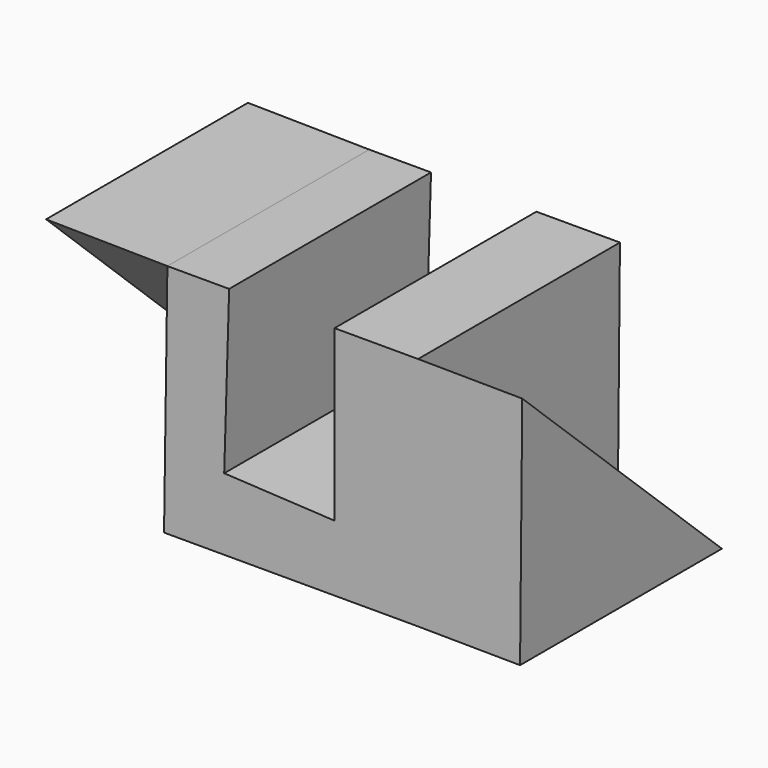
from build123d import *

# Parameters (mm, degrees)
F1_DEPTH = 94.3762343377
F3_DEPTH = 45.3802291304
F5_DEPTH = 38.9628577977


with BuildPart() as f1:
    # F0 (on Front) → F1 (new body)
    with BuildSketch(Plane.XZ):
        Polygon((-20.9776982665, 37.0258837938), (-44.0754815936, 37.0258837938), (-45.3320667148, -51.1417090893), (48.8735437393, -51.1417090893), (49.6917665005, 36.9159281254), (18.4360146523, 36.9159281254), (18.4360146523, -26.4765024185), (-22.8313431144, -24.2851227522), align=None)
    extrude(amount=F1_DEPTH)

    # F2 (on face) → F3 (join)
    with BuildSketch(Plane(origin=(-44.5941249017, 0, 0.635565881), x_dir=(0, -1, 0), z_dir=(-0.9998984524, 0, 0.0142507862))):
        Polygon((0, -51.7825333627), (94.3762343377, 36.394013638), (0, 36.394013638), align=None)
    extrude(amount=F3_DEPTH)

    # F4 (on face) → F5 (join)
    with BuildSketch(Plane(origin=(49.3444870134, 0, -0.45850404), x_dir=(0, 1, 0), z_dir=(0.9999568331, 0, -0.0092914989))):
        Polygon((0, -50.685392981), (-94.3762343377, 37.3760455736), (-94.3762343377, -50.685392981), align=None)
    extrude(amount=F5_DEPTH)


solid = f1.part
